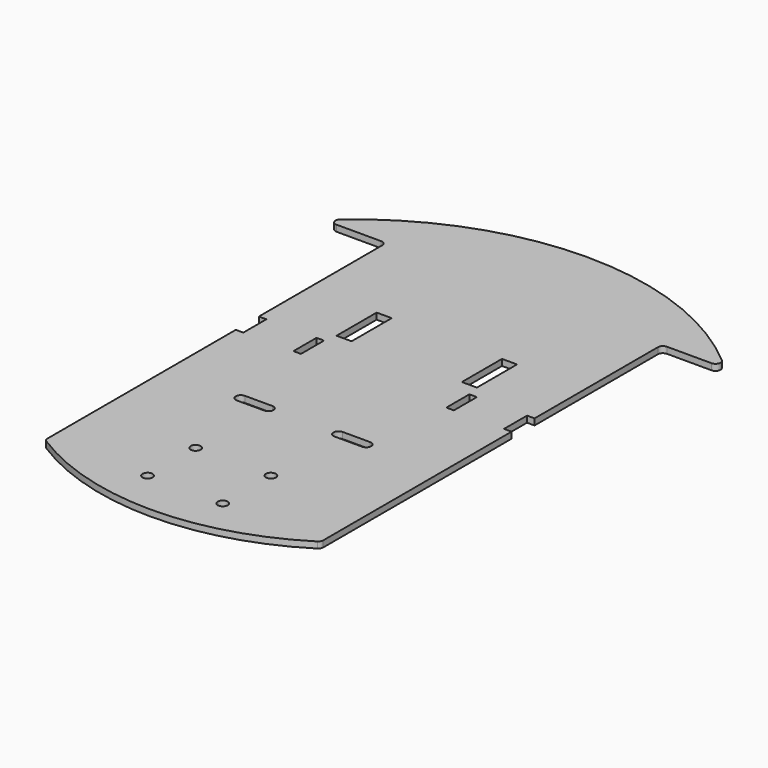
from build123d import *

# Parameters (mm, degrees)
PAD_DEPTH       = 2.5
SKETCH001_W     = 3
SKETCH001_H     = 11.5
POCKET_DEPTH    = 2.501
FILLET_R        = 2
FILLET001_R     = 2
SKETCH002_W     = 6
SKETCH002_H     = 20
POCKET001_DEPTH = 2.501
SKETCH003_R     = 2
POCKET002_DEPTH = 2.501
POCKET003_DEPTH = 2.501


with BuildPart() as part:
    # Sketch → Pad (new body)
    with BuildSketch(Plane.XY):
        with BuildLine():
            Line((55, 85), (55, -85))
            ThreePointArc((-55, -85), (0, -101.242284), (55, -85))
            Line((-55, -85), (-55, 85))
            Line((-55, 85), (-80, 85))
            ThreePointArc((80, 85), (0, 116.726175), (-80, 85))
            Line((80, 85), (55, 85))
        make_face()
    extrude(amount=PAD_DEPTH)

    # Sketch001 → Pocket (cut, through all)
    with BuildSketch(Plane.XY.offset(2.5)):
        with Locations((-53.5, 15.75)):
            Rectangle(SKETCH001_W, SKETCH001_H)
        with Locations((53.5, 15.75)):
            Rectangle(SKETCH001_W, SKETCH001_H)
        with Locations((-30.5, 15.75)):
            Rectangle(SKETCH001_W, SKETCH001_H)
        with Locations((30.5, 15.75)):
            Rectangle(SKETCH001_W, SKETCH001_H)
    extrude(amount=-POCKET_DEPTH, mode=Mode.SUBTRACT)

    # Fillet
    fillet_edges = [part.edges().sort_by_distance(p)[0] for p in [
        (-55, 85, 1.25),
        (55, 85, 1.25),
    ]]
    fillet(fillet_edges, radius=FILLET_R)

    # Fillet001
    fillet001_edges = [part.edges().sort_by_distance(p)[0] for p in [
        (80, 85, 1.25),
        (-80, 85, 1.25),
        (-55, -85, 1.25),
        (55, -85, 1.25),
    ]]
    fillet(fillet001_edges, radius=FILLET001_R)

    # Sketch002 → Pocket001 (cut, through all)
    with BuildSketch(Plane.XY.offset(2.5)):
        with Locations((-25, 36.5)):
            Rectangle(SKETCH002_W, SKETCH002_H)
        with Locations((25, 36.5)):
            Rectangle(SKETCH002_W, SKETCH002_H)
    extrude(amount=-POCKET001_DEPTH, mode=Mode.SUBTRACT)

    # Sketch003 → Pocket002 (cut, through all)
    with BuildSketch(Plane.XY.offset(2.5)):
        with Locations((-15, -60)):
            Circle(SKETCH003_R)
        with Locations((15, -60)):
            Circle(SKETCH003_R)
        with Locations((15, -84)):
            Circle(SKETCH003_R)
        with Locations((-15, -84)):
            Circle(SKETCH003_R)
    extrude(amount=-POCKET002_DEPTH, mode=Mode.SUBTRACT)

    # Sketch004 → Pocket003 (cut, through all)
    with BuildSketch(Plane.XY.offset(2.5)):
        with BuildLine():
            ThreePointArc((-25, -23), (-27, -25), (-25, -27))
            Line((-25, -27), (-14, -27))
            ThreePointArc((-14, -27), (-12, -25), (-14, -23))
            Line((-25, -23), (-14, -23))
        make_face()
        with BuildLine():
            ThreePointArc((14, -23), (12, -25), (14, -27))
            Line((14, -27), (25, -27))
            ThreePointArc((25, -27), (27, -25), (25, -23))
            Line((14, -23), (25, -23))
        make_face()
    extrude(amount=-POCKET003_DEPTH, mode=Mode.SUBTRACT)


solid = part.part
